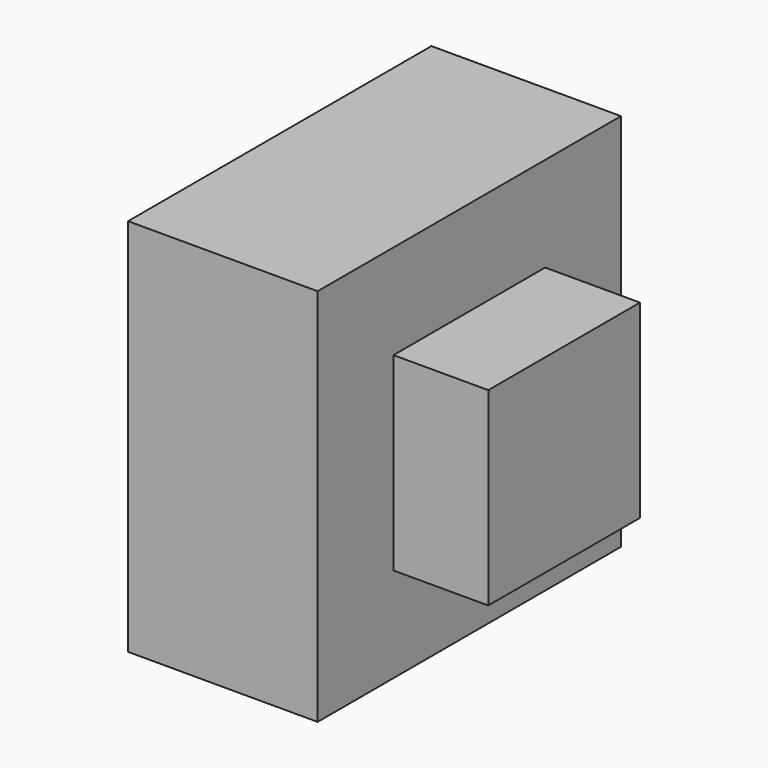
from build123d import *

# Parameters (mm, degrees)
F0_W     = 40
F0_H     = 40
F1_DEPTH = 20
F2_W     = 20
F2_H     = 20
F3_DEPTH = 10


with BuildPart() as f1:
    # F0 (on Right) → F1 (new body)
    with BuildSketch(Plane.YZ):
        Rectangle(F0_W, F0_H)
    extrude(amount=F1_DEPTH)

    # F2 (on face) → F3 (join)
    with BuildSketch(Plane.YZ.offset(20)):
        Rectangle(F2_W, F2_H)
    extrude(amount=F3_DEPTH)


solid = f1.part
